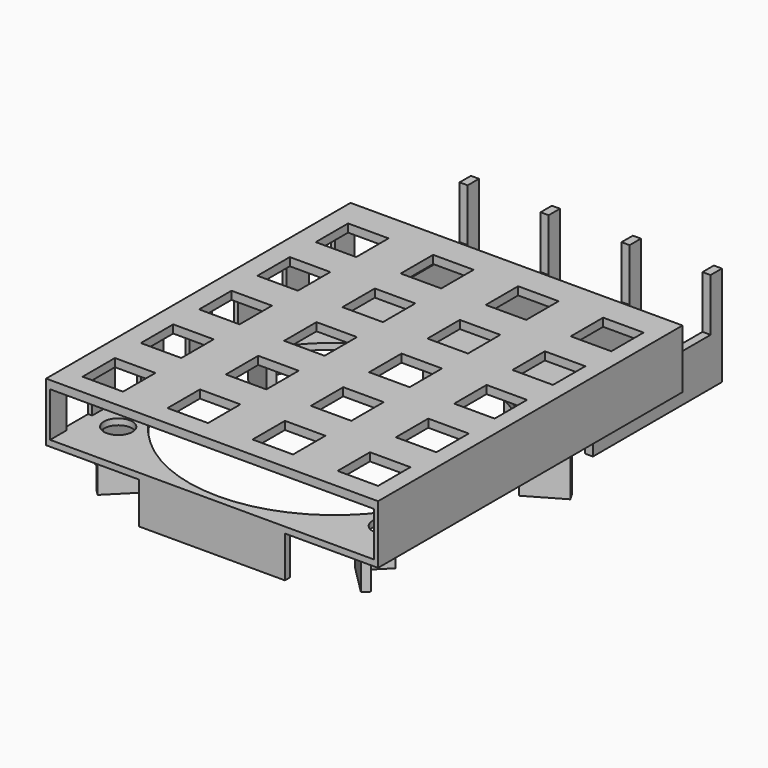
from build123d import *

# Parameters (mm, degrees)
BOX020_W                 = 10
BOX020_H                 = 2
BOX020_DEPTH             = 10.2
BOX020_PLACEMENT_ANGLE   = 45
CYLINDER012_R            = 0.9
CYLINDER012_DEPTH        = 3.5
BOX039_W                 = 5
BOX039_H                 = 5
BOX039_DEPTH             = 3.5
CLONE011_PLACEMENT_ANGLE = 45
CLONE012_PLACEMENT_ANGLE = 30
CLONE003_PLACEMENT_ANGLE = 75
BOX023_W                 = 1
BOX023_H                 = 94
BOX023_DEPTH             = 11
CYLINDER013_R            = 3.5
CYLINDER013_DEPTH        = 15
BOX021_W                 = 36
BOX021_H                 = 1.5
BOX021_DEPTH             = 10.2
BOX024_W                 = 2
BOX024_H                 = 10
BOX024_DEPTH             = 10.2
BOX025_W                 = 4
BOX025_H                 = 8
BOX025_DEPTH             = 15
ARRAY006_Y_COUNT         = 6
ARRAY006_Y_PITCH         = 15
BOX027_W                 = 10
BOX027_H                 = 10
BOX027_DEPTH             = 10
ARRAY007_X_COUNT         = 4
ARRAY007_X_PITCH         = 21
ARRAY007_Y_COUNT         = 5
ARRAY007_Y_PITCH         = 18
BOX026_W                 = 82
BOX026_H                 = 94
BOX026_DEPTH             = 2
CYLINDER010_R            = 36
CYLINDER010_DEPTH        = 22.4
BOX018_W                 = 2
BOX018_H                 = 3.5
BOX018_DEPTH             = 24.7
BOX017_W                 = 2
BOX017_H                 = 39.83
BOX017_DEPTH             = 11.7
ARRAY003_X_COUNT         = 4
ARRAY003_X_PITCH         = 20
BOX019_W                 = 82
BOX019_H                 = 94
BOX019_DEPTH             = 1.5


with BuildPart() as cube006:
    # Box020 → Box020 (new body)
    with BuildSketch(Plane.XY):
        with Locations((5, 1)):
            Rectangle(BOX020_W, BOX020_H)
    extrude(amount=BOX020_DEPTH)


with BuildPart() as cube006_1:
    # Box020 placement: moved
    add(cube006.part.moved(Location((97.9730880654, 7.4730880654, 2))).rotate(Axis((97.9730880654, 7.4730880654, 2), (0, 0, 1)), BOX020_PLACEMENT_ANGLE))


with BuildPart() as part_mirroring012:
    # Part__Mirroring012: instance of Cube006
    add(cube006_1.part.mirror(Plane(origin=(130.5, 0, 0), x_dir=(0, -1, 0), z_dir=(1, 0, 0))))


with BuildPart() as anchorscrew:
    # Cylinder012 → Cylinder012 (new body)
    with BuildSketch(Plane(origin=(2.5, 2.5, 0), x_dir=(1, 0, 0), z_dir=(0, 0, 1))):
        Circle(CYLINDER012_R)
    extrude(amount=CYLINDER012_DEPTH)


with BuildPart() as anchor:
    # Box039 → Box039 (new body)
    with BuildSketch(Plane.XY):
        with Locations((2.5, 2.5)):
            Rectangle(BOX039_W, BOX039_H)
    extrude(amount=BOX039_DEPTH)

    # Cut010: cut AnchorScrew
    add(anchorscrew.part, mode=Mode.SUBTRACT)


with BuildPart() as anchor006:
    # Clone011 base: copy of Anchor
    add(anchor.part)


with BuildPart() as anchor006_1:
    # Clone011 placement: moved
    add(anchor006.part.moved(Location((98.326641456, 10.6550685808, 2))).rotate(Axis((98.326641456, 10.6550685808, 2), (0, 0, 1)), CLONE011_PLACEMENT_ANGLE))


with BuildPart() as part_mirroring011:
    # Part__Mirroring011: instance of Anchor006
    add(anchor006_1.part.mirror(Plane(origin=(130.5, 0, 0), x_dir=(0, -1, 0), z_dir=(1, 0, 0))))


with BuildPart() as part_mirroring014:
    # Part__Mirroring014: instance of Part__Mirroring011
    add(part_mirroring011.part.mirror(Plane(origin=(0, 0, 5.5), x_dir=(0, 1, 0), z_dir=(0, 0, 1))))


with BuildPart() as anchor007:
    # Clone012 base: copy of Anchor
    add(anchor.part)


with BuildPart() as anchor007_1:
    # Clone012 placement: moved
    add(anchor007.part.moved(Location((91.8278949354, 62.75, 2))).rotate(Axis((91.8278949354, 62.75, 2), (0, 0, -1)), CLONE012_PLACEMENT_ANGLE))


with BuildPart() as part_mirroring017:
    # Part__Mirroring017: instance of Anchor007
    add(anchor007_1.part.mirror(Plane(origin=(0, 0, 5.5), x_dir=(0, 1, 0), z_dir=(0, 0, 1))))


with BuildPart() as cube007:
    # Clone003 base: copy of Cube006
    add(cube006_1.part)


with BuildPart() as cube007_1:
    # Clone003 placement: moved
    add(cube007.part.moved(Location((58.0870815626, 155.7005585266, 0))).rotate(Axis((58.0870815626, 155.7005585266, 0), (0, 0, -1)), CLONE003_PLACEMENT_ANGLE))


with BuildPart() as part_mirroring013:
    # Part__Mirroring013: instance of Cube007
    add(cube007_1.part.mirror(Plane(origin=(130.5, 0, 0), x_dir=(0, -1, 0), z_dir=(1, 0, 0))))


with BuildPart() as part_mirroring016:
    # Part__Mirroring016: instance of Anchor007
    add(anchor007_1.part.mirror(Plane(origin=(130.5, 0, 0), x_dir=(0, -1, 0), z_dir=(1, 0, 0))))


with BuildPart() as part_mirroring018:
    # Part__Mirroring018: instance of Part__Mirroring016
    add(part_mirroring016.part.mirror(Plane(origin=(0, 0, 5.5), x_dir=(0, 1, 0), z_dir=(0, 0, 1))))


with BuildPart() as part_mirroring015:
    # Part__Mirroring015: instance of Anchor006
    add(anchor006_1.part.mirror(Plane(origin=(0, 0, 5.5), x_dir=(0, 1, 0), z_dir=(0, 0, 1))))


with BuildPart() as cube010:
    # Box023 → Box023 (new body)
    with BuildSketch(Plane(origin=(170.5, 2.17, 13.7), x_dir=(1, 0, 0), z_dir=(0, 0, 1))):
        with Locations((0.5, 47)):
            Rectangle(BOX023_W, BOX023_H)
    extrude(amount=BOX023_DEPTH)


with BuildPart() as anchorhole:
    # Cylinder013 → Cylinder013 (new body)
    with BuildSketch(Plane(origin=(2.5, 2.5, 0), x_dir=(1, 0, 0), z_dir=(0, 0, 1))):
        Circle(CYLINDER013_R)
    extrude(amount=CYLINDER013_DEPTH)


with BuildPart() as anchorhole002:
    # Clone014 base: copy of AnchorHole
    add(anchorhole.part)


with BuildPart() as anchorhole002_1:
    # Clone014 placement: moved
    add(anchorhole002.part.moved(Location((92.8278949354, 62.75, 2))))


with BuildPart() as part_mirroring020:
    # Part__Mirroring020: instance of AnchorHole002
    add(anchorhole002_1.part.mirror(Plane(origin=(130.5, 0, 0), x_dir=(0, -1, 0), z_dir=(1, 0, 0))))


with BuildPart() as anchorhole001:
    # Clone013 base: copy of AnchorHole
    add(anchorhole.part)


with BuildPart() as anchorhole001_1:
    # Clone013 placement: moved
    add(anchorhole001.part.moved(Location((94.826641456, 12.1550685808, 2))))


with BuildPart() as part_mirroring019:
    # Part__Mirroring019: instance of AnchorHole001
    add(anchorhole001_1.part.mirror(Plane(origin=(130.5, 0, 0), x_dir=(0, -1, 0), z_dir=(1, 0, 0))))


with BuildPart() as cube008:
    # Box021 → Box021 (new body)
    with BuildSketch(Plane(origin=(112.5, 2.17, 2), x_dir=(1, 0, 0), z_dir=(0, 0, 1))):
        with Locations((18, 0.75)):
            Rectangle(BOX021_W, BOX021_H)
    extrude(amount=BOX021_DEPTH)


with BuildPart() as cube011:
    # Box024 → Box024 (new body)
    with BuildSketch(Plane(origin=(89.5, 17.17, 2), x_dir=(1, 0, 0), z_dir=(0, 0, 1))):
        with Locations((1, 5)):
            Rectangle(BOX024_W, BOX024_H)
    extrude(amount=BOX024_DEPTH)


with BuildPart() as array006:
    # Box025 → Box025 (new body)
    with BuildSketch(Plane(origin=(88.1666666667, 7.17, 12.2), x_dir=(1, 0, 0), z_dir=(0, 0, 1))):
        with Locations((2, 4)):
            Rectangle(BOX025_W, BOX025_H)
    extrude(amount=BOX025_DEPTH)

    # Array006 Y: Array006 ×6


with BuildPart() as array006_1:
    add(array006.part)
    with Locations(*[(0, i * ARRAY006_Y_PITCH, 0) for i in range(1, ARRAY006_Y_COUNT)]):
        add(array006.part)


with BuildPart() as cut008:
    # Part__Mirroring002: instance of Cube010
    add(cube010.part.mirror(Plane(origin=(130.5, 0, 0), x_dir=(0, -1, 0), z_dir=(1, 0, 0))))

    # Cut008: cut Array006
    add(array006_1.part, mode=Mode.SUBTRACT)


with BuildPart() as array007:
    # Box027 → Box027 (new body)
    with BuildSketch(Plane.XY):
        with Locations((5, 5)):
            Rectangle(BOX027_W, BOX027_H)
    extrude(amount=BOX027_DEPTH)

    # Array007 X: Array007 ×4


with BuildPart() as array007_1:
    add(array007.part)
    with Locations(*[(i * ARRAY007_X_PITCH, 0, 0) for i in range(1, ARRAY007_X_COUNT)]):
        add(array007.part)

    # Array007 Y: Array007 ×5


with BuildPart() as array007_2:
    add(array007_1.part)
    with Locations(*[(0, i * ARRAY007_Y_PITCH, 0) for i in range(1, ARRAY007_Y_COUNT)]):
        add(array007_1.part)


with BuildPart() as array007_3:
    # Array007 placement: moved
    add(array007_2.part.moved(Location((94.5, 7.17, 20.7))))


with BuildPart() as cut009:
    # Box026 → Box026 (new body)
    with BuildSketch(Plane(origin=(89.5, 2.17, 24.7), x_dir=(1, 0, 0), z_dir=(0, 0, 1))):
        with Locations((41, 47)):
            Rectangle(BOX026_W, BOX026_H)
    extrude(amount=BOX026_DEPTH)

    # Cut009: cut Array007
    add(array007_3.part, mode=Mode.SUBTRACT)


with BuildPart() as obj1:
    # Cylinder010 → Cylinder010 (new body)
    with BuildSketch(Plane(origin=(130.5, 40, 2), x_dir=(1, 0, 0), z_dir=(0, 0, 1))):
        Circle(CYLINDER010_R)
    extrude(amount=CYLINDER010_DEPTH)


with BuildPart() as cube004:
    # Box018 → Box018 (new body)
    with BuildSketch(Plane(origin=(100.575, 116, 2), x_dir=(1, 0, 0), z_dir=(0, 0, 1))):
        with Locations((1, 1.75)):
            Rectangle(BOX018_W, BOX018_H)
    extrude(amount=BOX018_DEPTH)


with BuildPart() as array003:
    # Box017 → Box017 (new body)
    with BuildSketch(Plane(origin=(100.575, 79.67, 2), x_dir=(1, 0, 0), z_dir=(0, 0, 1))):
        with Locations((1, 19.915)):
            Rectangle(BOX017_W, BOX017_H)
    extrude(amount=BOX017_DEPTH)

    # Fusion001: union Cube004
    add(cube004.part)

    # Array003 X: Array003 ×4


with BuildPart() as array003_1:
    add(array003.part)
    with Locations(*[(i * ARRAY003_X_PITCH, 0, 0) for i in range(1, ARRAY003_X_COUNT)]):
        add(array003.part)


with BuildPart() as phonecradle:
    # Box019 → Box019 (new body)
    with BuildSketch(Plane(origin=(89.5, 2.17, 12.2), x_dir=(1, 0, 0), z_dir=(0, 0, 1))):
        with Locations((41, 47)):
            Rectangle(BOX019_W, BOX019_H)
    extrude(amount=BOX019_DEPTH)

    # Fusion002: union Array003
    add(array003_1.part)

    # Cut007: cut obj1
    add(obj1.part, mode=Mode.SUBTRACT)

    # Fusion003: union Cube008, Cube011, Cut008, Cut009
    add(cube008.part)
    add(cube011.part)
    add(cut008.part)
    add(cut009.part)

    # Cut011: cut AnchorHole001
    add(anchorhole001_1.part, mode=Mode.SUBTRACT)

    # Cut012: cut Part__Mirroring019
    add(part_mirroring019.part, mode=Mode.SUBTRACT)

    # Cut013: cut AnchorHole002
    add(anchorhole002_1.part, mode=Mode.SUBTRACT)

    # Cut014: cut Part__Mirroring020
    add(part_mirroring020.part, mode=Mode.SUBTRACT)

    # Fusion011: union Part__Mirroring012, Part__Mirroring014, Part__Mirroring017, Part__Mirroring013, Part__Mirroring018, Part__Mirroring015, Cube007, Cube006, Cube010
    add(part_mirroring012.part)
    add(part_mirroring014.part)
    add(part_mirroring017.part)
    add(part_mirroring013.part)
    add(part_mirroring018.part)
    add(part_mirroring015.part)
    add(cube007_1.part)
    add(cube006_1.part)
    add(cube010.part)


solid = phonecradle.part
